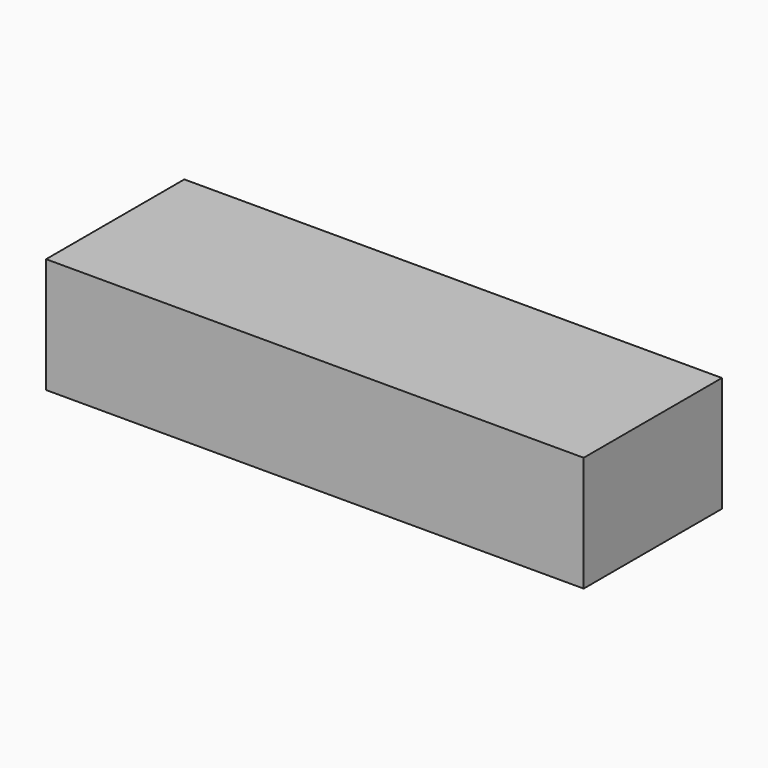
from build123d import *

# Parameters (mm, degrees)
BOX_W     = 140
BOX_H     = 45
BOX_DEPTH = 30


with BuildPart() as part:
    # Box → Box (new body)
    with BuildSketch(Plane.XY):
        with Locations((70, 22.5)):
            Rectangle(BOX_W, BOX_H)
    extrude(amount=BOX_DEPTH)


solid = part.part
